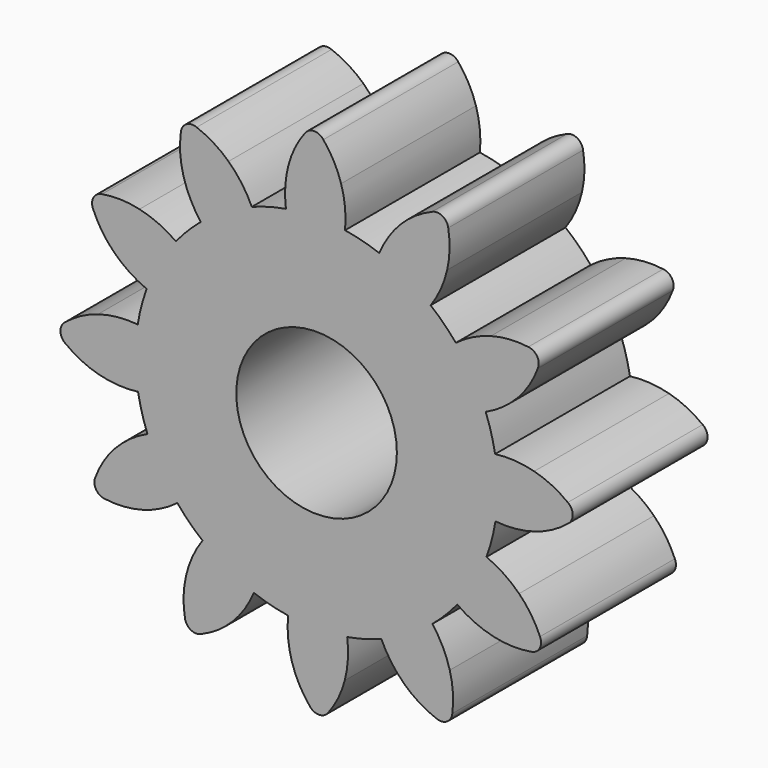
from build123d import *

# Parameters (mm, degrees)
F0_R     = 11.90906
F1_DEPTH = 25
F2_COUNT = 12


with BuildPart() as f1:
    # F0 (on Front) → F1 (new body)
    with BuildSketch(Plane.XZ):
        with BuildLine():
            ThreePointArc((-4.4772, 26.540564), (-0.095682, 26.927299), (4.290206, 26.593761))
            ThreePointArc((4.290206, 26.593761), (4.28911, 29.570632), (3.706133, 32.489861))
            ThreePointArc((3.706133, 32.489861), (2.632484, 35.065209), (1.07088, 37.377466))
            ThreePointArc((1.07088, 37.377466), (-0.312037, 38.054077), (-1.667357, 37.323755))
            ThreePointArc((-1.667357, 37.323755), (-3.137083, 34.952037), (-4.108913, 32.336566))
            ThreePointArc((-4.108913, 32.336566), (-4.573289, 29.456371), (-4.4772, 26.540564))
        make_face()
        with BuildLine():
            ThreePointArc((-4.4772, 26.540564), (-17.244829, -20.469915), (26.927793, 0.067293))
            ThreePointArc((26.927793, 0.067293), (20.499082, 17.503705), (4.290206, 26.593761))
            ThreePointArc((4.290206, 26.593761), (-0.095682, 26.927299), (-4.4772, 26.540564))
        make_face()
        with Locations((0.067293, 0.067293)):
            Circle(F0_R, mode=Mode.SUBTRACT)
    extrude(amount=F1_DEPTH)

    # F2: F1 ×12 about axis
    f2_axis = Axis((0.067293, 0, 0.067293), (0, 1, 0))


with BuildPart() as f1_1:
    add(f1.part)
    for i in range(1, F2_COUNT):
        add(f1.part.rotate(f2_axis, i * 360 / F2_COUNT))


solid = f1_1.part
